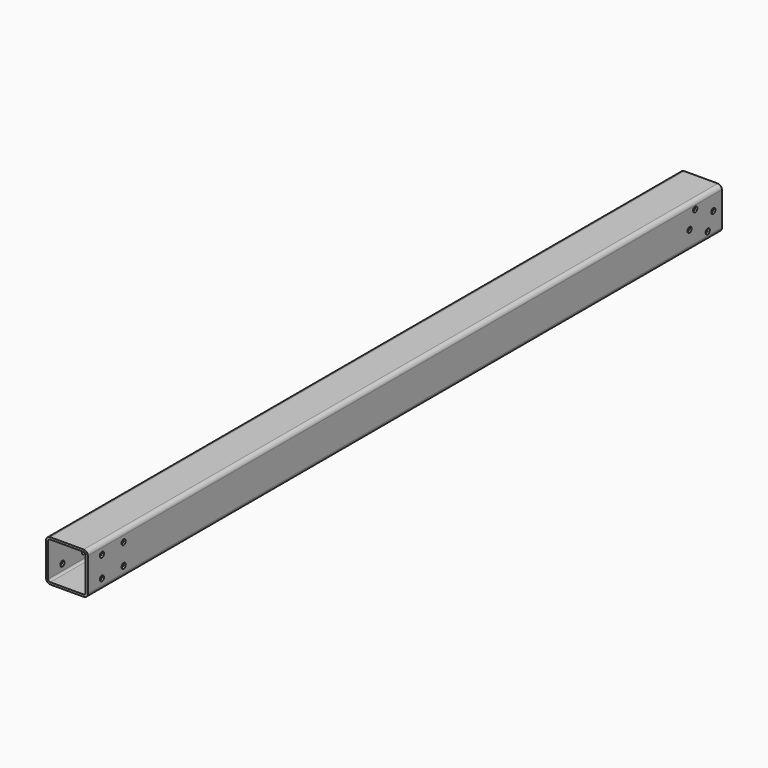
from build123d import *

# Parameters (mm, degrees)
F1_DEPTH = 950
F2_R     = 6.25
F3_DEPTH = 100.001
F4_R     = 6.25
F5_DEPTH = 100.001


with BuildPart() as f1:
    # F0 (on Front) → F1 (new body, symmetric)
    with BuildSketch(Plane.XZ):
        with BuildLine():
            Line((-40, -50), (40, -50))
            ThreePointArc((40, -50), (47.071068, -47.071068), (50, -40))
            Line((50, -40), (50, 40))
            ThreePointArc((50, 40), (47.071068, 47.071068), (40, 50))
            Line((40, 50), (-40, 50))
            ThreePointArc((-40, 50), (-47.071068, 47.071068), (-50, 40))
            Line((-50, 40), (-50, -40))
            ThreePointArc((-50, -40), (-47.071068, -47.071068), (-40, -50))
        make_face()
        with BuildLine():
            ThreePointArc((40, 45), (43.535534, 43.535534), (45, 40))
            Line((45, 40), (45, -40))
            ThreePointArc((45, -40), (43.535534, -43.535534), (40, -45))
            Line((40, -45), (-40, -45))
            ThreePointArc((-40, -45), (-43.535534, -43.535534), (-45, -40))
            Line((-45, -40), (-45, 40))
            ThreePointArc((-45, 40), (-43.535534, 43.535534), (-40, 45))
            Line((-40, 45), (40, 45))
        make_face(mode=Mode.SUBTRACT)
    extrude(amount=F1_DEPTH, both=True)

    # F2 (on face) → F3 (cut, through all)
    with BuildSketch(Plane.YZ.offset(50)):
        with Locations((-907.5, 25)):
            Circle(F2_R)
        with Locations((-842.5, 25)):
            Circle(F2_R)
        with Locations((-842.5, -25)):
            Circle(F2_R)
        with Locations((-907.5, -25)):
            Circle(F2_R)
    extrude(amount=-F3_DEPTH, mode=Mode.SUBTRACT)

    # F4 (on face) → F5 (cut, through all)
    with BuildSketch(Plane.YZ.offset(50)):
        with Locations((870, 31)):
            Circle(F4_R)
        with Locations((924.378467, 5.642904)):
            Circle(F4_R)
        with Locations((907.473737, -30.609407)):
            Circle(F4_R)
        with Locations((853.09527, -5.252311)):
            Circle(F4_R)
    extrude(amount=-F5_DEPTH, mode=Mode.SUBTRACT)


solid = f1.part
